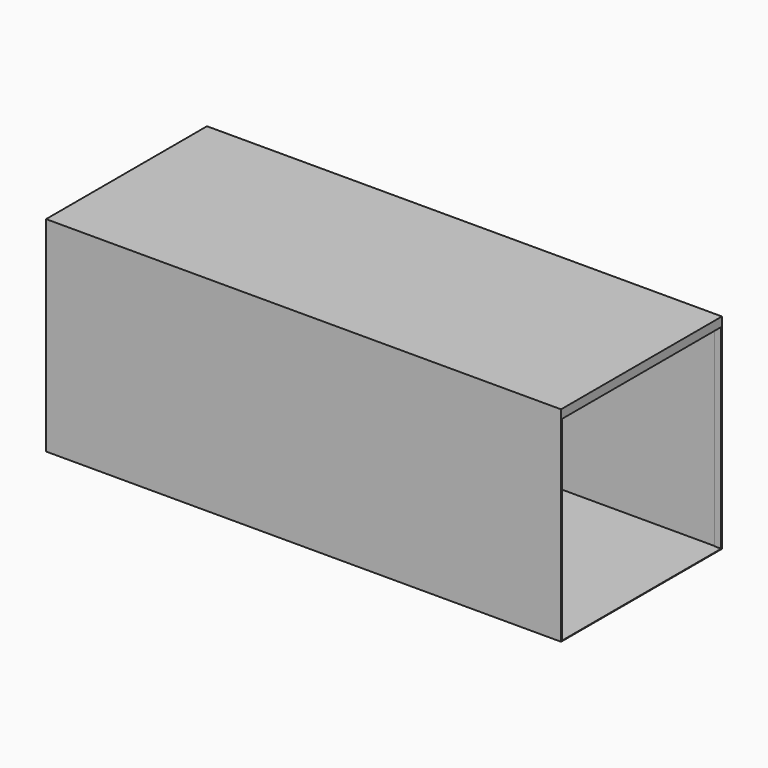
from build123d import *

# Parameters (mm, degrees)
F0_W      = 2362.2
F0_H      = 2403.475
F1_DEPTH  = 6048.375
F2_DEPTH  = 76.2
F3_W      = 2349.5
F3_H      = 2390.775
F4_DEPTH  = 76.2
F5_W      = 1562.1
F5_H      = 2171.7
F5_W_2    = 1524
F5_H_2    = 2133.6
F6_DEPTH  = 2032
F7_W      = 1524
F7_H      = 19.05
F8_DEPTH  = 1879.6
F9_DEPTH  = 2032
F10_DEPTH = 19.05
F12_R     = 84.201
F13_DEPTH = 19.05
F14_W     = 1422.4
F14_H     = 76.2
F15_DEPTH = 1190.626
F18_DEPTH = 1524
F19_W     = 1422.4
F19_H     = 76.2
F20_DEPTH = 285.751
F21_R     = 84.201
F22_DEPTH = 19.05


with BuildPart() as f1:
    # F0 (on Right) → F1 (new body)
    with BuildSketch(Plane.YZ):
        with Locations((0, 1195.3875)):
            Rectangle(F0_W, F0_H)
        Polygon((-1169.9875, 0), (-1174.75, 0), (-1174.75, 2390.775), (1174.75, 2390.775), (1174.75, 0), (1169.9875, 0), align=None, mode=Mode.SUBTRACT)
    extrude(amount=-F1_DEPTH)

    # F0 (on Right) → F2 (join)
    with BuildSketch(Plane.YZ):
        Polygon((-1174.75, 2390.775), (-1174.75, 0), (-1169.9875, 0), (-1169.9875, 2292.35), (1169.9875, 2292.35), (1169.9875, 0), (1174.75, 0), (1174.75, 2390.775), align=None)
    extrude(amount=-F2_DEPTH)

    # F3 (on face) → F4 (join)
    with BuildSketch(Plane(origin=(-6048.375, 0, 0), x_dir=(0, -1, 0), z_dir=(-1, 0, 0))):
        with Locations((0, 1195.3875)):
            Rectangle(F3_W, F3_H)
    extrude(amount=-F4_DEPTH)


with BuildPart() as f6:
    # F5 (on Top) → F6 (new body)
    with BuildSketch(Plane.XY):
        with Locations((-5103.854384613, 0)):
            Rectangle(F5_W, F5_H)
        with Locations((-5103.854384613, 0)):
            Rectangle(F5_W_2, F5_H_2, mode=Mode.SUBTRACT)
    extrude(amount=F6_DEPTH)

    # F12 (on face) → F13 (cut, through all)
    with BuildSketch(Plane.XZ.offset(1085.85)):
        with Locations((-5103.854384613, 1905)):
            Circle(F12_R)
    extrude(amount=-F13_DEPTH, mode=Mode.SUBTRACT)

    # F21 (on face) → F22 (cut, through all)
    with BuildSketch(Plane(origin=(0, 1085.85, 0), x_dir=(-1, 0, 0), z_dir=(0, 1, 0))):
        with Locations((5103.854384613, 1854.2)):
            Circle(F21_R)
    extrude(amount=-F22_DEPTH, mode=Mode.SUBTRACT)


with BuildPart() as f8:
    # F7 (on face) → F8 (new body, through all)
    with BuildSketch(Plane.XY.offset(2032)):
        with Locations((-5103.854384613, 222.25)):
            Rectangle(F7_W, F7_H)
    extrude(amount=-F8_DEPTH)


with BuildPart() as f8b:
    # F7 (on face) → F8, piece 2 (new body, through all)
    with BuildSketch(Plane.XY.offset(2032)):
        with Locations((-5103.854384613, -854.075)):
            Rectangle(F7_W, F7_H)
    extrude(amount=-F8_DEPTH)


with BuildPart() as f9:
    # F7 (on face) → F9 (new body, through all)
    with BuildSketch(Plane.XY.offset(2032)):
        with Locations((-5103.854384613, 0)):
            Rectangle(F7_W, F7_H)
    extrude(amount=-F9_DEPTH)

    # F14 (on face) → F15 (cut, through all)
    with BuildSketch(Plane.XZ.offset(9.525)):
        with Locations((-5103.854384613, 1833.499)):
            Rectangle(F14_W, F14_H)
    extrude(amount=-F15_DEPTH, mode=Mode.SUBTRACT)


with BuildPart() as f10:
    # F5 (on Top) → F10 (new body)
    with BuildSketch(Plane.XY):
        with Locations((-5103.854384613, 0)):
            Rectangle(F5_W, F5_H)
        with Locations((-5103.854384613, 0)):
            Rectangle(F5_W_2, F5_H_2, mode=Mode.SUBTRACT)
        with Locations((-5103.854384613, 0)):
            Rectangle(F5_W_2, F5_H_2)
    extrude(amount=-F10_DEPTH)


with BuildPart() as f1_1:
    # F16: moved
    add(f1.part.moved(Location((0, 0, -152.4))))


with BuildPart() as f18:
    # F17 (on face) → F18 (new body, through all)
    with BuildSketch(Plane.YZ.offset(-5865.854384613)):
        Polygon((914.4, 2032), (895.35, 2032), (895.35, 1631.95), (1066.8, 1631.95), (1066.8, 1651), (914.4, 1651), align=None)
    extrude(amount=F18_DEPTH)

    # F19 (on face) → F20 (cut, through all)
    with BuildSketch(Plane.XZ.offset(-895.35)):
        with Locations((-5103.854384613, 1706.499)):
            Rectangle(F19_W, F19_H)
    extrude(amount=-F20_DEPTH, mode=Mode.SUBTRACT)


solid = Compound([f6.part, f8.part, f8b.part, f9.part, f10.part, f1_1.part, f18.part])
